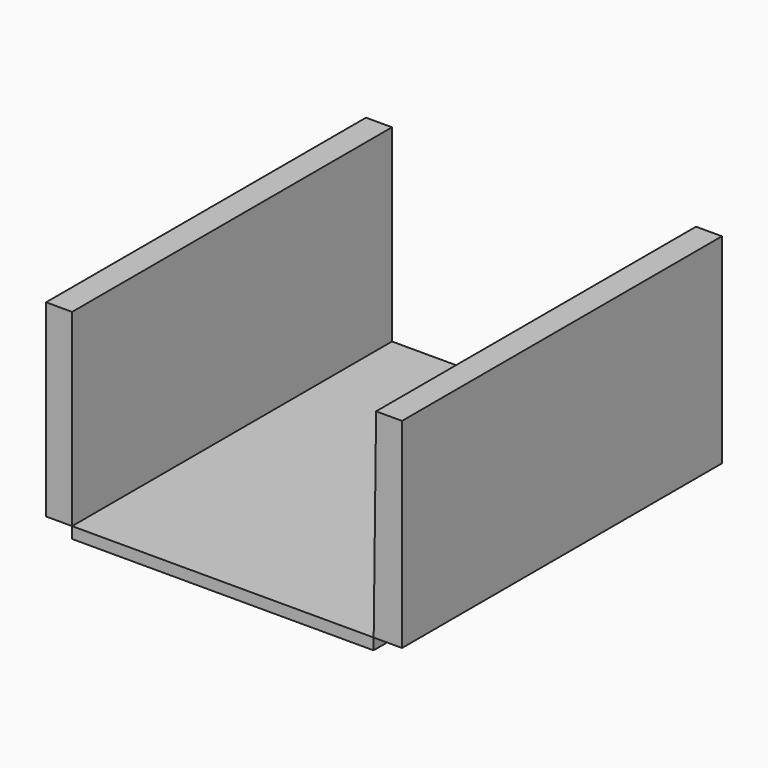
from build123d import *

# Parameters (mm, degrees)
F1_DEPTH = 25.4
F0_W     = 1.6530854926
F0_H     = 11.9800508386


with BuildPart() as f1:
    # F0 (on Front) → F1 (new body)
    with BuildSketch(Plane.XZ):
        Polygon((10.8571308537, 3.0726285186), (-8.2998636753, 3.0726285186), (-8.2998636753, 2.3526793572), (8.1842970103, 2.3526793572), (10.848434642, 2.3526793572), align=None)
    extrude(amount=F1_DEPTH)


with BuildPart() as f1b:
    # F0 (on Front) → F1, piece 2 (new body)
    with BuildSketch(Plane.XZ):
        with Locations((-9.1264064216, 9.0626539379)):
            Rectangle(F0_W, F0_H)
    extrude(amount=F1_DEPTH)


with BuildPart() as f1c:
    # F0 (on Front) → F1, piece 3 (new body)
    with BuildSketch(Plane.XZ):
        Polygon((11.0105331987, 15.7726285186), (10.8571308537, 3.0726285186), (12.657715939, 3.0726285186), (12.657715939, 15.7726285186), align=None)
    extrude(amount=F1_DEPTH)


solid = Compound([f1.part, f1b.part, f1c.part])
